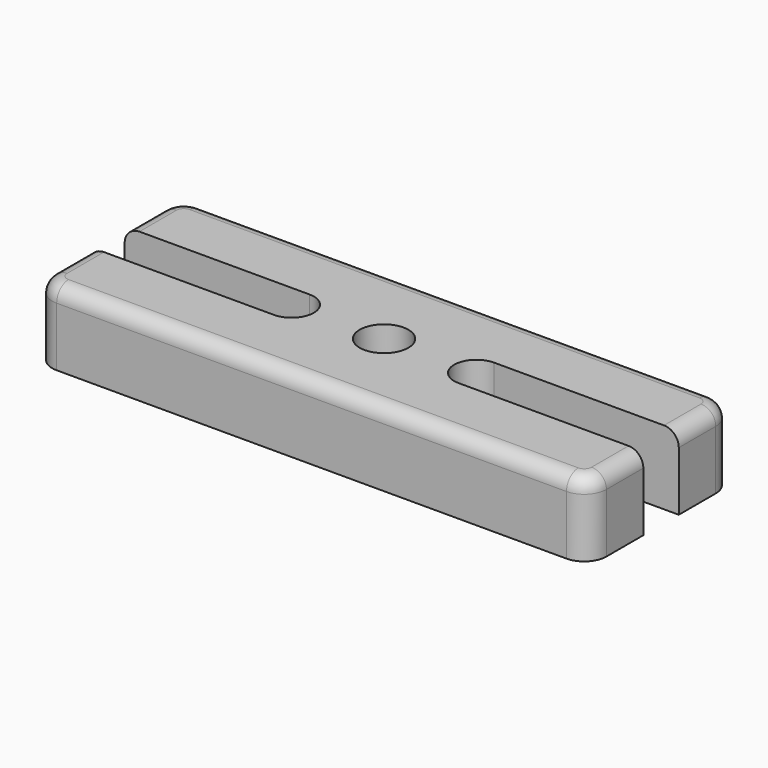
from build123d import *

# Parameters (mm, degrees)
PAD_DEPTH        = 10
HOLE_D           = 6.6
HOLE_DEPTH       = 25
HOLE_CBORE_D     = 11
HOLE_CBORE_DEPTH = 6.4
FILLET_R         = 2
FILLET001_R      = 2


with BuildPart() as part:
    # Sketch → Pad (new body)
    with BuildSketch(Plane.XY):
        with BuildLine():
            Line((-34.5, 12.25), (34.5, 12.25))
            ThreePointArc((37.5, 9.25), (36.62132, 11.37132), (34.5, 12.25))
            Line((37.5, 9.25), (37.5, 3))
            Line((37.5, 3), (12.5, 3))
            ThreePointArc((12.5, 3), (9.5, 0), (12.5, -3))
            Line((12.5, -3), (37.5, -3))
            Line((37.5, -3), (37.5, -9.25))
            ThreePointArc((34.5, -12.25), (36.62132, -11.37132), (37.5, -9.25))
            Line((34.5, -12.25), (-34.5, -12.25))
            ThreePointArc((-37.5, -9.25), (-36.62132, -11.37132), (-34.5, -12.25))
            Line((-37.5, -9.25), (-37.5, -3))
            Line((-37.5, -3), (-12.5, -3))
            ThreePointArc((-12.5, -3), (-9.5, 0), (-12.5, 3))
            Line((-12.5, 3), (-37.5, 3))
            Line((-37.5, 3), (-37.5, 9.25))
            ThreePointArc((-34.5, 12.25), (-36.62132, 11.37132), (-37.5, 9.25))
        make_face()
    extrude(amount=PAD_DEPTH)

    # Hole
    with Locations(Plane(origin=(0, 0, 0), x_dir=(1, 0, 0), z_dir=(0, 0, -1))):
        with Locations((0, 0)):
            CounterBoreHole(HOLE_D / 2, HOLE_CBORE_D / 2, HOLE_CBORE_DEPTH, depth=HOLE_DEPTH)

    # Fillet
    fillet_edges = [part.edges().sort_by_distance(p)[0] for p in [
        (0, 12.25, 10),
    ]]
    fillet(fillet_edges, radius=FILLET_R)

    # Fillet001
    fillet001_edges = [part.edges().sort_by_distance(p)[0] for p in [
        (0, -12.25, 10),
    ]]
    fillet(fillet001_edges, radius=FILLET001_R)


solid = part.part
